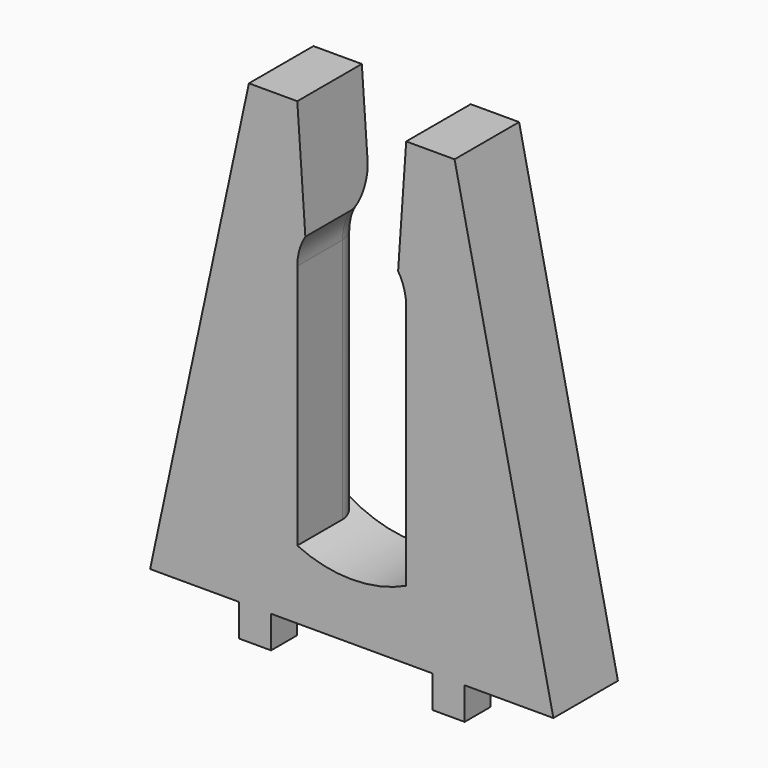
from build123d import *

# Parameters (mm, degrees)
PAD006_DEPTH = 10
FILLET001_R  = 3
PAD010_DEPTH = 4


with BuildPart() as part:
    # Sketch006 → Pad006 (new body)
    with BuildSketch(Plane.XZ):
        with BuildLine():
            Line((18.25, 57), (12.25, 57))
            Line((12.25, 57), (0, 0))
            Line((0, 0), (50, 0))
            Line((50, 0), (37.75, 57))
            Line((37.75, 57), (31.75, 57))
            Line((30.75, 42.535534), (31.75, 57))
            ThreePointArc((31.75, 39), (31.495191, 40.837117), (30.75, 42.535534))
            Line((31.75, 8.5), (31.75, 39))
            ThreePointArc((18.25, 8.5), (25, 7), (31.75, 8.5))
            Line((18.25, 39), (18.25, 8.5))
            ThreePointArc((19.25, 42.535534), (18.504809, 40.837117), (18.25, 39))
            Line((19.25, 42.535534), (18.25, 57))
        make_face()
    extrude(amount=-PAD006_DEPTH)

    # Fillet001
    fillet001_edges = [part.edges().sort_by_distance(p)[0] for p in [
        (31.75, 10, 23.75),
        (18.25, 10, 23.75),
    ]]
    fillet(fillet001_edges, radius=FILLET001_R)

    # Sketch009 → Pad010 (join)
    with BuildSketch(Plane.XZ):
        Polygon((11, -4), (11, 5.262975), (39, 5.262975), (39, -4), (35, -4), (35, 0), (15, 0), (15, -4), align=None)
    extrude(amount=-PAD010_DEPTH)


solid = part.part
